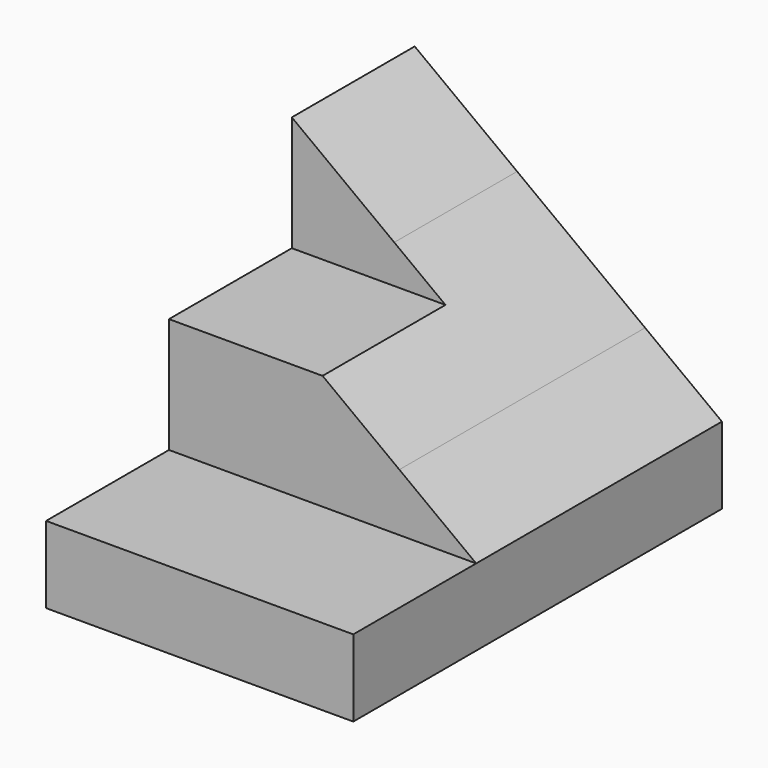
from build123d import *

# Parameters (mm, degrees)
F1_DEPTH = 38.1
F3_DEPTH = 12.7
F5_DEPTH = 12.7


with BuildPart() as f1:
    # F0 (on Front) → F1 (new body)
    with BuildSketch(Plane.XZ):
        Polygon((0, 6.35), (0, 0), (25.4, 0), (25.4, 6.35), (19.05, 6.35), align=None)
        Polygon((0, 19.05), (0, 6.35), (19.05, 6.35), (19.05, 11.1125), (8.4666666667, 19.05), align=None)
        Polygon((19.05, 6.35), (25.4, 6.35), (19.05, 11.1125), align=None)
        Polygon((0, 25.4), (0, 19.05), (8.4666666667, 19.05), align=None)
    extrude(amount=F1_DEPTH)

    # F2 (on face) → F3 (cut)
    with BuildSketch(Plane.XZ.offset(38.1)):
        Polygon((0, 6.35), (25.4, 6.35), (0, 25.4), align=None)
    extrude(amount=-F3_DEPTH, mode=Mode.SUBTRACT)

    # F4 (on face) → F5 (cut)
    with BuildSketch(Plane.XZ.offset(25.4)):
        Polygon((0, 15.875), (12.7, 15.875), (0, 25.4), align=None)
    extrude(amount=-F5_DEPTH, mode=Mode.SUBTRACT)


solid = f1.part
